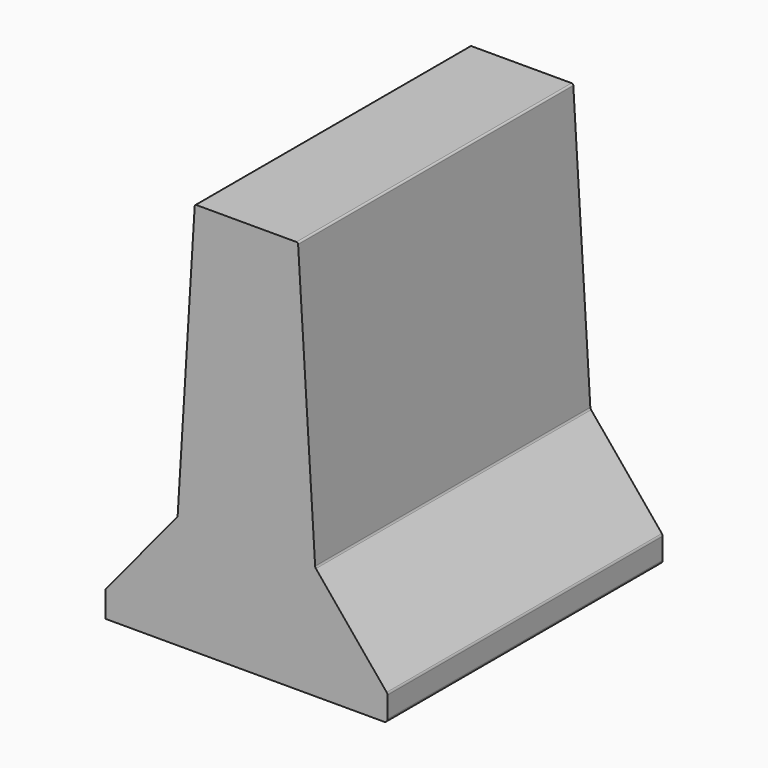
from build123d import *

# Parameters (mm, degrees)
F1_DEPTH = 1000


with BuildPart() as f1:
    # F0 (on Front) → F1 (new body)
    with BuildSketch(Plane.XZ):
        with BuildLine():
            Line((-410, 0), (0, 0))
            Line((0, 0), (400, 0))
            ThreePointArc((400, 0), (407.071068, 2.928932), (410, 10))
            Line((410, 10), (410, 71.412346))
            ThreePointArc((410, 71.412346), (409.412572, 74.789251), (407.719302, 77.769419))
            Line((407.719302, 77.769419), (202.063194, 327.494693))
            ThreePointArc((202.063194, 327.494693), (200.477782, 330.188122), (199.801263, 333.23942))
            Line((199.801263, 333.23942), (150.287965, 1140.306173))
            ThreePointArc((150.287965, 1140.306173), (148.722923, 1143.642174), (145.297348, 1145))
            Line((145.297348, 1145), (0, 1145))
            Line((0, 1145), (-145.297348, 1145))
            ThreePointArc((-145.297348, 1145), (-148.722923, 1143.642174), (-150.287965, 1140.306173))
            Line((-150.287965, 1140.306173), (-200, 330))
            Line((-200, 330), (-201.031597, 328.747346))
            Line((-201.031597, 328.747346), (-407.719302, 77.769419))
            ThreePointArc((-407.719302, 77.769419), (-409.412572, 74.789251), (-410, 71.412346))
            Line((-410, 71.412346), (-410, 0))
        make_face()
    extrude(amount=F1_DEPTH)


solid = f1.part
